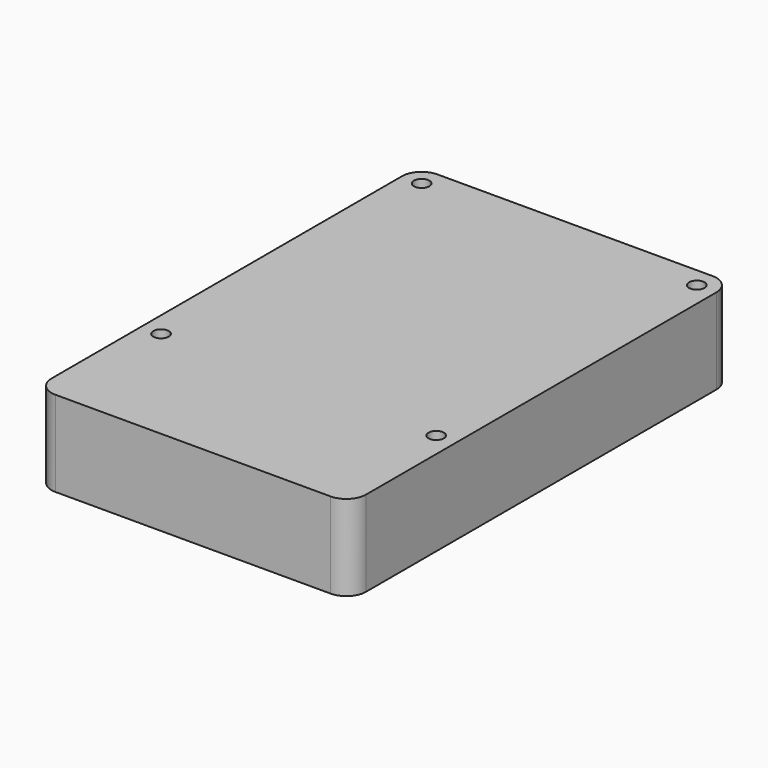
from build123d import *

# Parameters (mm, degrees)
F0_W     = 55.999888
F0_H     = 85.000084
F0_R     = 1.375
F1_DEPTH = 15.24
F2_R     = 3.499993


with BuildPart() as f1:
    # F0 (on Top) → F1 (new body)
    with BuildSketch(Plane.XY):
        with Locations((0, -10.000107)):
            Rectangle(F0_W, F0_H)
        with Locations((-24.499951, -28.999942)):
            Circle(F0_R, mode=Mode.SUBTRACT)
        with Locations((24.499951, -28.999942)):
            Circle(F0_R, mode=Mode.SUBTRACT)
        with Locations((-24.499951, 28.999942)):
            Circle(F0_R, mode=Mode.SUBTRACT)
        with Locations((24.499951, 28.999942)):
            Circle(F0_R, mode=Mode.SUBTRACT)
    extrude(amount=F1_DEPTH)

    # F2
    f2_edges = [f1.edges().sort_by_distance(p)[0] for p in [
        (-27.999944, 32.499935, 7.62),
        (27.999944, 32.499935, 7.62),
        (27.999944, -52.500149, 7.62),
        (-27.999944, -52.500149, 7.62),
    ]]
    fillet(f2_edges, radius=F2_R)


solid = f1.part
